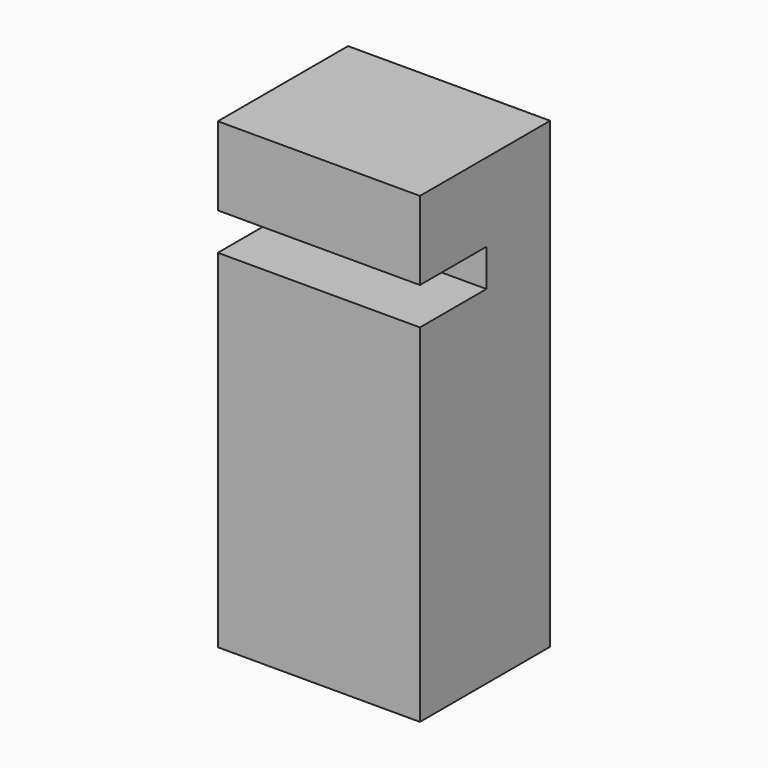
from build123d import *

# Parameters (mm, degrees)
F0_W     = 29.6439956874
F0_H     = 67.9221600294
F1_DEPTH = 23.876
F2_W     = 29.6439956874
F2_H     = 5.4683089256
F3_DEPTH = 40.64
F4_DEPTH = 28.956
F5_W     = 6.9073364139
F5_H     = 2.8780577704
F6_DEPTH = 3.302


with BuildPart() as f1:
    # F0 (on Front) → F1 (new body)
    with BuildSketch(Plane.XZ):
        with Locations((14.8219978437, 33.9610800147)):
            Rectangle(F0_W, F0_H)
    extrude(amount=F1_DEPTH)

    # F2 (on Front) → F3 (join)
    with BuildSketch(Plane.XZ):
        with Locations((14.8219978437, 53.6757744849)):
            Rectangle(F2_W, F2_H)
    extrude(amount=F3_DEPTH)

    # F4 (cut): a face of the model
    f4_faces = [f1.faces().sort_by_distance(p)[0] for p in [
        (14.8219978437, -40.64, 53.6757744849),
    ]]
    extrude(f4_faces, amount=-F4_DEPTH, mode=Mode.SUBTRACT)

    # F5 (on Top) → F6 (join)
    with BuildSketch(Plane.XY):
        with Locations((14.3902879208, 1.4390288852)):
            Rectangle(F5_W, F5_H)
    extrude(amount=F6_DEPTH)


solid = f1.part
